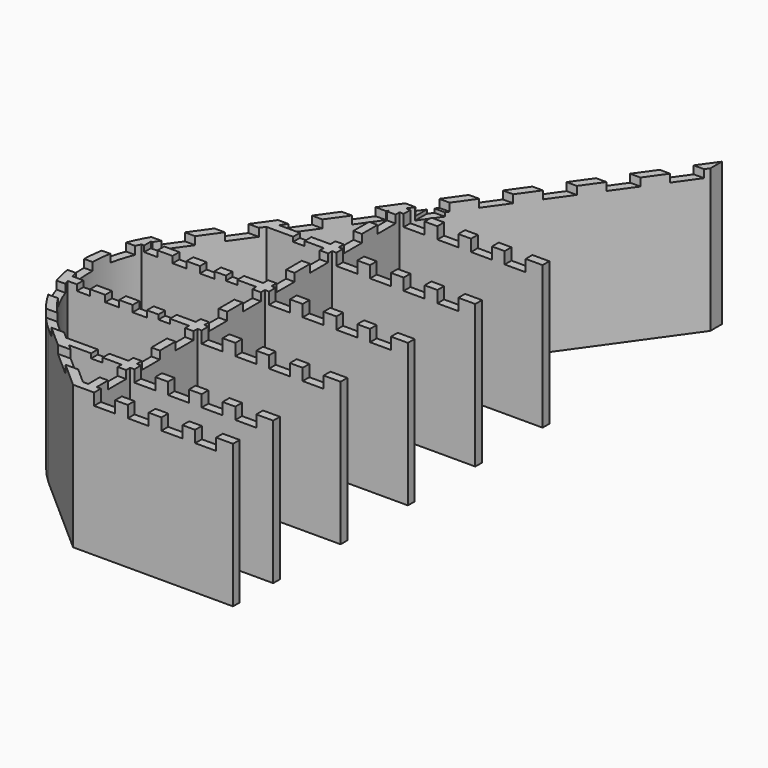
from build123d import *

# Parameters (mm, degrees)
F1_DEPTH = 8.5
F2_W     = 2.6719979942
F2_H     = 2.0647249185
F3_DEPTH = 87.1858458052
F4_W     = 2.4905577302
F4_H     = 1.3947952576
F5_DEPTH = 50
F6_W     = 1.3670325279
F6_H     = 0.5384511352
F7_DEPTH = 32
F8_W     = 1.5807747841
F8_H     = 0.7013836913
F8_W_2   = 1.6984343529
F8_H_2   = 0.7767644748
F8_W_3   = 1.660309732
F8_H_3   = 0.7778825276
F9_DEPTH = 11


with BuildPart() as f1:
    # F0 (on Top) → F1 (new body, symmetric)
    with BuildSketch(Plane.XY):
        with BuildLine():
            Line((-53.1848458052, -20), (-53.1848458052, -19))
            Line((-53.1848458052, -19), (-70.1848458052, -19))
            Line((-70.1848458052, -19), (-70.1848458052, -14.0331964348))
            Line((-70.1848458052, -14.0331964348), (-53.1848458052, -14.0331964348))
            Line((-53.1848458052, -14.0331964348), (-53.1848458052, -13.0331964348))
            Line((-53.1848458052, -13.0331964348), (-70.1848458052, -13.0331964348))
            Line((-70.1848458052, -13.0331964348), (-70.1848458052, -4.0331964348))
            Line((-70.1848458052, -4.0331964348), (-53.1848458052, -4.0331964348))
            Line((-53.1848458052, -4.0331964348), (-53.1848458052, -3.0331964348))
            Line((-53.1848458052, -3.0331964348), (-70.1848458052, -3.0331964348))
            Line((-70.1848458052, -3.0331964348), (-70.1848458052, 5.9668035652))
            Line((-70.1848458052, 5.9668035652), (-53.1848458052, 5.9668035652))
            Line((-53.1848458052, 5.9668035652), (-53.1848458052, 6.9668035652))
            Line((-53.1848458052, 6.9668035652), (-70.1848458052, 6.9668035652))
            Line((-70.1848458052, 6.9668035652), (-70.1848458052, 15.9668035652))
            Line((-70.1848458052, 15.9668035652), (-53.1848458052, 15.9668035652))
            Line((-53.1848458052, 15.9668035652), (-53.1848458052, 16.9668035652))
            Line((-53.1848458052, 16.9668035652), (-70.1848458052, 16.9668035652))
            Line((-70.1848458052, 16.9668035652), (-70.1848458052, 25.9668035652))
            Line((-70.1848458052, 25.9668035652), (-53.1848458052, 25.9668035652))
            Line((-53.1848458052, 25.9668035652), (-53.1848458052, 26.9668035652))
            Line((-53.1848458052, 26.9668035652), (-70.1848458052, 26.9668035652))
            Line((-70.1848458052, 26.9668035652), (-53.1848458052, 50.8686639287))
            Line((-53.1848458052, 50.8686639287), (-53.1848458052, 52.5940082139))
            Line((-53.1848458052, 52.5940082139), (-84.4084216862, 8.693916993))
            ThreePointArc((-84.4084216862, 8.693916993), (-87.0859128533, -1.7199421), (-82.1064132217, -11.25))
            Line((-82.1064132217, -11.25), (-72.1848458052, -20))
            Line((-72.1848458052, -20), (-53.1848458052, -20))
        make_face()
        Polygon((-71.1848458052, -14.0331964348), (-71.1848458052, -19), (-71.8068813322, -19), (-77.4387072084, -14.0331964348), align=None, mode=Mode.SUBTRACT)
        with BuildLine():
            Line((-78.5726006274, -13.0331964348), (-81.4449753939, -10.5))
            ThreePointArc((-81.4449753939, -10.5), (-83.9703676118, -7.5565518423), (-85.5913116526, -4.0331964348))
            Line((-85.5913116526, -4.0331964348), (-71.1848458052, -4.0331964348))
            Line((-71.1848458052, -4.0331964348), (-71.1848458052, -13.0331964348))
            Line((-71.1848458052, -13.0331964348), (-78.5726006274, -13.0331964348))
        make_face(mode=Mode.SUBTRACT)
        with BuildLine():
            Line((-71.1848458052, 5.9668035652), (-71.1848458052, -3.0331964348))
            Line((-71.1848458052, -3.0331964348), (-85.8523151901, -3.0331964348))
            ThreePointArc((-85.8523151901, -3.0331964348), (-86.098765193, 1.5501120183), (-84.8496496021, 5.9668035652))
            Line((-84.8496496021, 5.9668035652), (-71.1848458052, 5.9668035652))
        make_face(mode=Mode.SUBTRACT)
        with BuildLine():
            Line((-71.1848458052, 15.9668035652), (-71.1848458052, 6.9668035652))
            Line((-71.1848458052, 6.9668035652), (-84.3283069297, 6.9668035652))
            ThreePointArc((-84.3283069297, 6.9668035652), (-83.9748809939, 7.5495079474), (-83.5935166275, 8.1143225268))
            Line((-83.5935166275, 8.1143225268), (-78.0085045981, 15.9668035652))
            Line((-78.0085045981, 15.9668035652), (-71.1848458052, 15.9668035652))
        make_face(mode=Mode.SUBTRACT)
        Polygon((-77.2972628897, 16.9668035652), (-71.1848458052, 25.5608117792), (-71.1848458052, 16.9668035652), align=None, mode=Mode.SUBTRACT)
    extrude(amount=F1_DEPTH, both=True)

    # F2 (on Right) → F3 (cut, through all)
    with BuildSketch(Plane.YZ):
        with Locations((49.042345956, 8.5907282773)):
            Rectangle(F2_W, F2_H)
        with Locations((44.042345956, 8.5907282773)):
            Rectangle(F2_W, F2_H)
        with Locations((39.042345956, 8.5907282773)):
            Rectangle(F2_W, F2_H)
        with Locations((-15.957654044, 8.5907282773)):
            Rectangle(F2_W, F2_H)
        with Locations((34.042345956, 8.5907282773)):
            Rectangle(F2_W, F2_H)
        with Locations((29.042345956, 8.5907282773)):
            Rectangle(F2_W, F2_H)
        with Locations((24.042345956, 8.5907282773)):
            Rectangle(F2_W, F2_H)
        with Locations((19.042345956, 8.5907282773)):
            Rectangle(F2_W, F2_H)
        with Locations((14.042345956, 8.5907282773)):
            Rectangle(F2_W, F2_H)
        with Locations((9.042345956, 8.5907282773)):
            Rectangle(F2_W, F2_H)
        with Locations((4.042345956, 8.5907282773)):
            Rectangle(F2_W, F2_H)
        with Locations((-0.957654044, 8.5907282773)):
            Rectangle(F2_W, F2_H)
        with Locations((-5.957654044, 8.5907282773)):
            Rectangle(F2_W, F2_H)
        with Locations((-10.957654044, 8.5907282773)):
            Rectangle(F2_W, F2_H)
    extrude(amount=-F3_DEPTH, mode=Mode.SUBTRACT)

    # F4 (on face) → F5 (cut)
    with BuildSketch(Plane.XZ.offset(20)):
        with Locations((-68.4395669401, 7.8026023712)):
            Rectangle(F4_W, F4_H)
        with Locations((-64.4395669401, 7.8026023712)):
            Rectangle(F4_W, F4_H)
        with Locations((-60.4395669401, 7.8026023712)):
            Rectangle(F4_W, F4_H)
        with Locations((-56.4395669401, 7.8026023712)):
            Rectangle(F4_W, F4_H)
    extrude(amount=-F5_DEPTH, mode=Mode.SUBTRACT)

    # F6 (on face) → F7 (cut)
    with BuildSketch(Plane.XZ.offset(14.0331964348)):
        with Locations((-74.133425951, 8.2307744324)):
            Rectangle(F6_W, F6_H)
    extrude(amount=-F7_DEPTH, mode=Mode.SUBTRACT)

    # F8 (on face) → F9 (cut)
    with BuildSketch(Plane.XZ.offset(4.0331964348)):
        with Locations((-83.7275162339, 8.1493081544)):
            Rectangle(F8_W, F8_H)
        with Locations((-77.0347863436, 8.1116177626)):
            Rectangle(F8_W_2, F8_H_2)
        with Locations((-80.3103111684, 8.1110587362)):
            Rectangle(F8_W_3, F8_H_3)
    extrude(amount=-F9_DEPTH, mode=Mode.SUBTRACT)


solid = f1.part
